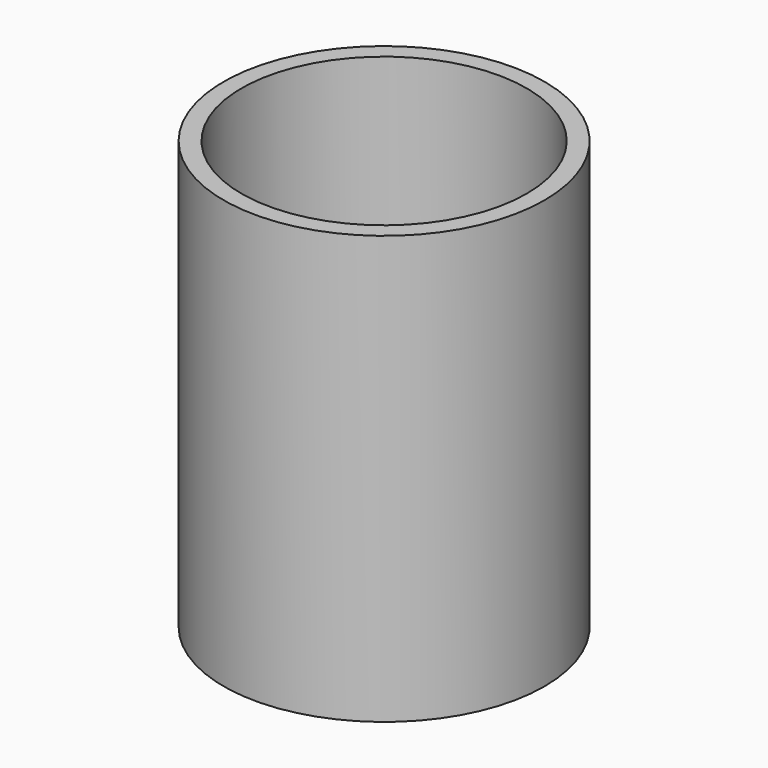
from build123d import *

# Parameters (mm, degrees)
SKETCH_R     = 45
PAD_DEPTH    = 120
SKETCH001_R  = 40
POCKET_DEPTH = 115


with BuildPart() as part:
    # Sketch → Pad (new body)
    with BuildSketch(Plane.XY):
        Circle(SKETCH_R)
    extrude(amount=PAD_DEPTH)

    # Sketch001 (on Face3 of Pad) → Pocket (cut)
    with BuildSketch(Plane.XY.offset(120)):
        Circle(SKETCH001_R)
    extrude(amount=-POCKET_DEPTH, mode=Mode.SUBTRACT)


solid = part.part
